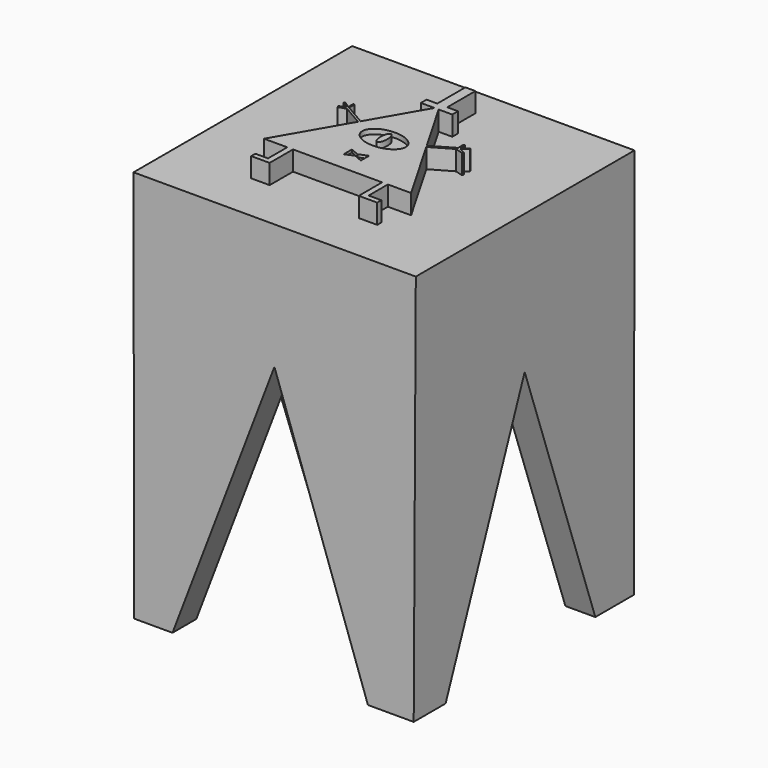
from build123d import *

# Parameters (mm, degrees)
F2_W      = 73.1475353241
F2_H      = 70.8314999938
F0_W      = 72.4511295557
F0_H      = 71.3188424706
F5_W      = 56.9582432508
F5_H      = 55.8546073735
F6_DEPTH  = 73.152
F7_DEPTH  = 95.758
F9_DEPTH  = 86.614
F11_DEPTH = 5.08
F13_DEPTH = 1.27
F15_DEPTH = 1.524
F17_DEPTH = 0.7112


with BuildPart() as f3:
    # F2 (on offset) → F3 section 0
    with BuildSketch(Plane.XY.offset(101.6)):
        Rectangle(F2_W, F2_H)
    # F0 (on Top) → F3 section 1
    with BuildSketch(Plane.XY):
        Rectangle(F0_W, F0_H)
    loft()

    # F5 (on face) → F6 (cut)
    with BuildSketch(Plane(origin=(0, 0, 0), x_dir=(1, 0, 0), z_dir=(0, 0, -1))):
        Rectangle(F5_W, F5_H)
    extrude(amount=-F6_DEPTH, mode=Mode.SUBTRACT)

    # F4 (on face) → F7 (cut)
    with BuildSketch(Plane(origin=(-36.2251392898, 0, -0.1241505707), x_dir=(0, -1, 0), z_dir=(-0.9999941272, 0, -0.0034271736))):
        Polygon((0, 65.275169909), (-24.1607315838, -2.9297065921), (26.3105798513, -2.6568875182), align=None)
    extrude(amount=-F7_DEPTH, mode=Mode.SUBTRACT)

    # F8 (on face) → F9 (cut)
    with BuildSketch(Plane(origin=(0, 35.6592161225, 0.0855228873), x_dir=(-1, 0, 0), z_dir=(0, 0.999997124, 0.0023983321))):
        Polygon((0, 69.2265182734), (-25.3821723163, -2.8089256957), (27.3824948817, -2.8089256957), align=None)
    extrude(amount=-F9_DEPTH, mode=Mode.SUBTRACT)

    # F10 (on face) → F11 (join)
    with BuildSketch(Plane.XY.offset(101.6)):
        Polygon((-4.0646982379, 17.0300158512), (-0.5349854946, 17.0300158512), (-8.561149079, 3.1282927331), (-14.1121569056, 6.333168596), (-14.1121569056, 8.104111068), (-14.455312863, 8.104111068), (-14.455312863, 6.4796363004), (-16.1955226213, 7.6996413991), (-16.3821305686, 7.3764269532), (-14.7429471835, 6.2008514069), (-16.2762347609, 5.5274688639), (-16.0840704319, 5.0899119633), (-14.1121569056, 5.6922513065), (-8.8386744062, 2.6476047659), (-19.05, -15.0389299751), (-13.0346929654, -15.0389299751), (-11.5492390469, -15.0389299751), (11.5492390469, -15.0389299751), (13.0346929654, -15.0389299751), (19.05, -15.0389299751), (8.8386744062, 2.6476047659), (8.561149079, 3.1282927331), (0.5349854946, 17.0300158512), (4.0646982379, 17.0300158512), (4.0646982379, 18.883259967), (1.2949991506, 18.883259967), (1.2949991506, 27.9881376773), (-1.2949991506, 27.9881376773), (-1.2949991506, 18.883259967), (-4.0646982379, 18.883259967), align=None)
        Polygon((14.1121569056, 6.333168596), (8.561149079, 3.1282927331), (8.8386744062, 2.6476047659), (14.1121569056, 5.6922513065), (16.0840704319, 5.0899119633), (16.2762347609, 5.5274688639), (14.7429471835, 6.2008514069), (16.3821305686, 7.3764269532), (16.1955226213, 7.6996413991), (14.455312863, 6.4796363004), (14.455312863, 8.104111068), (14.1121569056, 8.104111068), align=None)
        Polygon((13.0346929654, -21.2668702006), (13.0346929654, -15.0389299751), (11.5492390469, -15.0389299751), (11.5492390469, -22.6051732898), (16.3196176291, -22.6051732898), (16.3196176291, -21.2668702006), align=None)
        Polygon((-11.5492390469, -15.0389299751), (-13.0346929654, -15.0389299751), (-13.0346929654, -21.2668702006), (-16.3196176291, -21.2668702006), (-16.3196176291, -22.6051732898), (-11.5492390469, -22.6051732898), align=None)
    extrude(amount=F11_DEPTH)

    # F12 (on face) → F13 (cut)
    with BuildSketch(Plane.XY.offset(106.68)):
        with BuildLine():
            add(Edge.make_bspline(
                [(0, 3.6390926689), (-9.7410636981, 3.6390926689), (-4.8705318491, -1.8195463344), (0, -7.2781853378), (4.8705318491, -1.8195463344), (9.7410636981, 3.6390926689), (0, 3.6390926689)],
                knots=[4.7123889804, 4.7123889804, 4.7123889804, 6.8067840828, 6.8067840828, 8.9011791852, 8.9011791852, 10.9955742876, 10.9955742876, 10.9955742876], degree=2, weights=[1, 0.5, 1, 0.5, 1, 0.5, 1]))
        make_face()
    extrude(amount=-F13_DEPTH, mode=Mode.SUBTRACT)

    # F14 (on face) → F15 (join)
    with BuildSketch(Plane.XY.offset(105.41)):
        with BuildLine():
            add(Edge.make_bspline(
                [(0, 2.2370060906), (-1.5068039382, 2.2370060906), (-0.7534019691, -1.1185030453), (0, -4.4740121812), (0.7534019691, -1.1185030453), (1.5068039382, 2.2370060906), (0, 2.2370060906)],
                knots=[0, 0, 0, 2.0943951024, 2.0943951024, 4.1887902048, 4.1887902048, 6.2831853072, 6.2831853072, 6.2831853072], degree=2, weights=[1, 0.5, 1, 0.5, 1, 0.5, 1]))
        make_face()
    extrude(amount=F15_DEPTH)

    # F16 (on face) → F17 (cut)
    with BuildSketch(Plane.XY.offset(106.68)):
        Polygon((2.2227161098, -7.6221204363), (0, -8.5254283622), (-2.2227161098, -7.6221204363), (-2.2227161098, -10.2890301496), (0, -9.3427076936), (2.2227161098, -10.2890301496), align=None)
    extrude(amount=-F17_DEPTH, mode=Mode.SUBTRACT)


solid = f3.part
